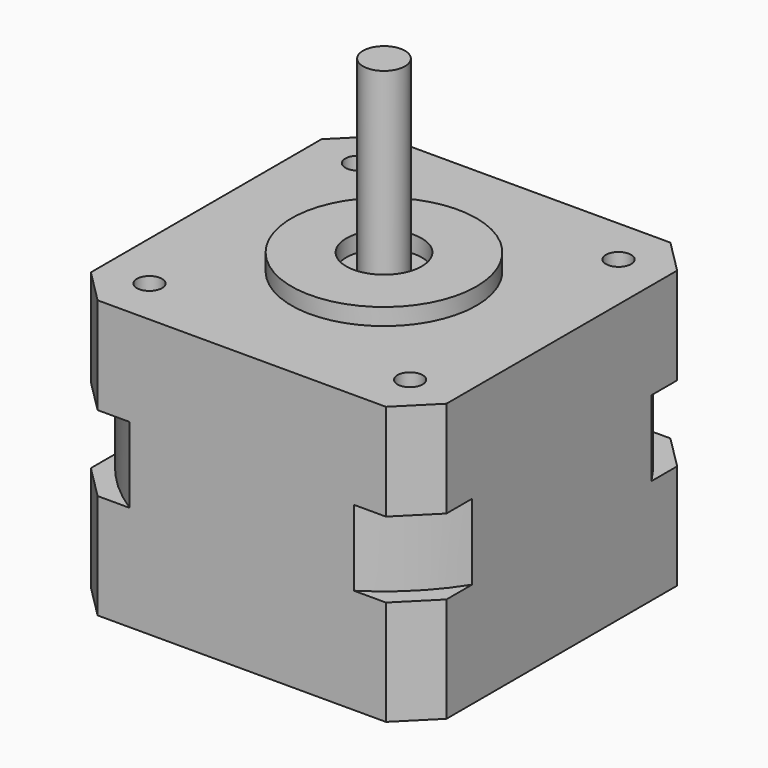
from build123d import *

# Parameters (mm, degrees)
F0_W      = 42.3
F0_H      = 42.3
F1_DEPTH  = 33
F2_SIZE   = 4
F3_R      = 11
F3_R_2    = 4.5
F4_DEPTH  = 2
F5_R      = 1.5
F6_DEPTH  = 9
F7_R      = 4.5
F7_R_2    = 3
F8_DEPTH  = 1
F9_R      = 2.5
F10_DEPTH = 22.3
F11_W     = 6.266167
F11_H     = 9


with BuildPart() as f1:
    # F0 (on Top) → F1 (new body)
    with BuildSketch(Plane.XY):
        Rectangle(F0_W, F0_H)
    extrude(amount=F1_DEPTH)

    # F2
    f2_edges = [f1.edges().sort_by_distance(p)[0] for p in [
        (21.15, -21.15, 16.5),
        (-21.15, -21.15, 16.5),
        (21.15, 21.15, 16.5),
        (-21.15, 21.15, 16.5),
    ]]
    chamfer(f2_edges, length=F2_SIZE)

    # F3 (on face) → F4 (join)
    with BuildSketch(Plane.XY.offset(33)):
        Circle(F3_R)
        Circle(F3_R_2, mode=Mode.SUBTRACT)
    extrude(amount=F4_DEPTH)

    # F5 (on face) → F6 (cut)
    with BuildSketch(Plane.XY.offset(33)):
        with Locations((15.5, 15.5)):
            Circle(F5_R)
        with Locations((15.5, -15.5)):
            Circle(F5_R)
        with Locations((-15.5, -15.5)):
            Circle(F5_R)
        with Locations((-15.5, 15.5)):
            Circle(F5_R)
    extrude(amount=-F6_DEPTH, mode=Mode.SUBTRACT)

    # F7 (on face) → F8 (cut)
    with BuildSketch(Plane(origin=(0, 0, 0), x_dir=(1, 0, 0), z_dir=(0, 0, -1))):
        Circle(F7_R)
        with Locations((-15.5, 15.5)):
            Circle(F7_R_2)
        with Locations((-15.5, -15.5)):
            Circle(F7_R_2)
        with Locations((15.5, -15.5)):
            Circle(F7_R_2)
        with Locations((15.5, 15.5)):
            Circle(F7_R_2)
    extrude(amount=-F8_DEPTH, mode=Mode.SUBTRACT)

    # F9 (on face) → F10 (join)
    with BuildSketch(Plane.XY.offset(33)):
        Circle(F9_R)
    extrude(amount=F10_DEPTH)

    # F11 (on Right) → F12 (revolve, cut)
    with BuildSketch(Plane.YZ):
        with Locations((28.133083, 17)):
            Rectangle(F11_W, F11_H)
    revolve(axis=Axis((0, 0, 12.553133), (0, 0, 1)), mode=Mode.SUBTRACT)


solid = f1.part
